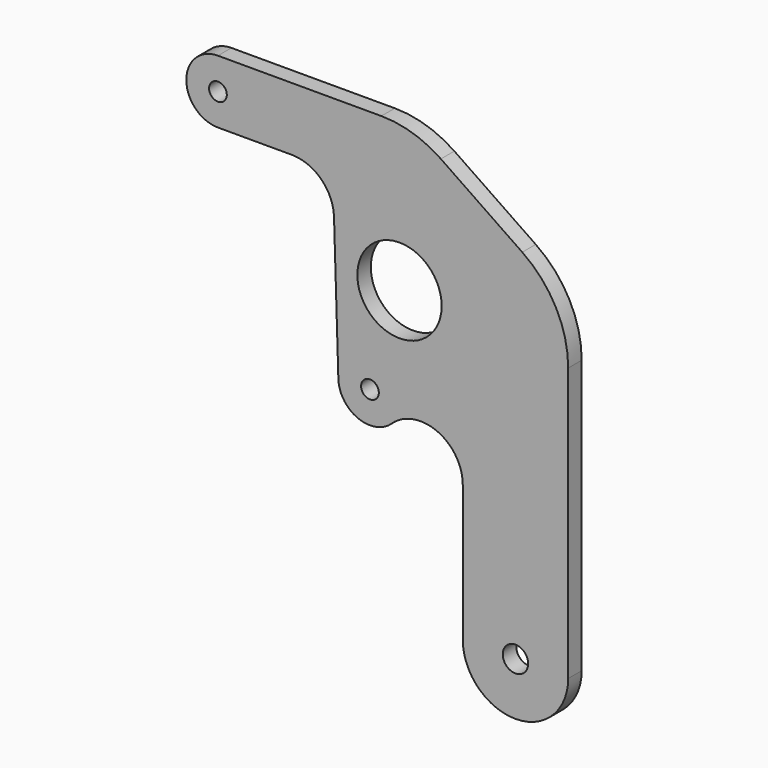
from build123d import *

# Parameters (mm, degrees)
F0_R     = 2.1
F0_R_2   = 3.0112391077
F0_R_3   = 10
F1_DEPTH = 4
F2_R     = 10


with BuildPart() as f1:
    # F0 (on Front) → F1 (new body)
    with BuildSketch(Plane.XZ):
        with BuildLine():
            ThreePointArc((-7.1964808299, -32.8210414008), (5.3035191701, -45.3210414008), (17.8035191701, -32.8210414008))
            Line((17.8035191701, -32.8210414008), (17.8035191701, 31.9860279487))
            ThreePointArc((17.8035191701, 31.9860279487), (14.9136906194, 43.6539462927), (6.9122936914, 52.6244019521))
            Line((6.9122936914, 52.6244019521), (-12.3863800917, 65.8173326027))
            ThreePointArc((-12.3863800917, 65.8173326027), (-19.1113666315, 69.0636749476), (-26.4951546131, 70.1789585992))
            Line((-26.4951546131, 70.1789585992), (-65.2450833675, 70.1789585992))
            ThreePointArc((-65.2450833675, 70.1789585992), (-72.7450833675, 62.6789585992), (-65.2450833675, 55.1789585992))
            Line((-65.2450833675, 55.1789585992), (-47.7182544043, 55.1789585992))
            ThreePointArc((-47.7182544043, 55.1789585992), (-40.7567549399, 52.3579226753), (-37.7229834901, 45.4864636405))
            Line((-37.7229834901, 45.4864636405), (-36.6929340156, 12.0053099336))
            ThreePointArc((-36.6929340156, 12.0053099336), (-33.8390412261, 6.3455539251), (-27.6691188204, 4.8931078373))
            ThreePointArc((-27.6691188204, 4.8931078373), (-25.5466337907, 5.683945385), (-23.7570386065, 7.0723674408))
            Line((-23.7570386065, 7.0723674408), (-7.1964808299, 24.517695962))
            Line((-7.1964808299, 24.517695962), (-7.1964808299, -32.8210414008))
        make_face()
        with Locations((-29.1964808299, 12.2359387145)):
            Circle(F0_R, mode=Mode.SUBTRACT)
        with Locations((5.3035191701, -32.8210414008)):
            Circle(F0_R_2, mode=Mode.SUBTRACT)
        with Locations((-65.2450833675, 62.6789585992)):
            Circle(F0_R, mode=Mode.SUBTRACT)
        Polygon((-6.4974784621, 25.2540434998), (-7.1964808299, 24.517695962), (-7.1964808299, 25.917594724), align=None, mode=Mode.SUBTRACT)
        with Locations((-22.1964808299, 35.1789585992)):
            Circle(F0_R_3, mode=Mode.SUBTRACT)
        Polygon((-7.1964808299, 25.917594724), (-7.1964808299, 24.517695962), (-6.4974784621, 25.2540434998), align=None)
    extrude(amount=F1_DEPTH)

    # F2
    f2_edges = [f1.edges().sort_by_distance(p)[0] for p in [
        (-7.196481, -2, 24.517696),
    ]]
    fillet(f2_edges, radius=F2_R)


solid = f1.part
